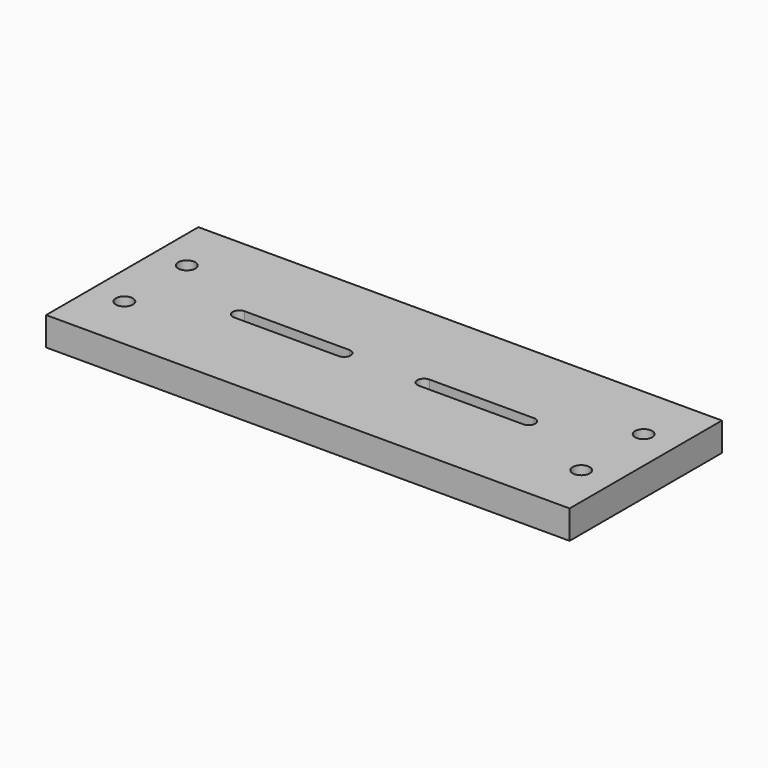
from build123d import *

# Parameters (mm, degrees)
F0_W     = 550
F0_H     = 200
F0_R     = 9
F1_DEPTH = 30


with BuildPart() as f1:
    # F0 (on Top) → F1 (new body)
    with BuildSketch(Plane.XY):
        Rectangle(F0_W, F0_H)
        with Locations((-240, -41)):
            Circle(F0_R, mode=Mode.SUBTRACT)
        with Locations((240, -41)):
            Circle(F0_R, mode=Mode.SUBTRACT)
        with Locations((-240, 41)):
            Circle(F0_R, mode=Mode.SUBTRACT)
        with BuildLine():
            ThreePointArc((-42, 7), (-35, 0), (-42, -7))
            Line((-42, -7), (-152, -7))
            ThreePointArc((-152, -7), (-159, 0), (-152, 7))
            Line((-152, 7), (-42, 7))
        make_face(mode=Mode.SUBTRACT)
        with BuildLine():
            ThreePointArc((42, -7), (35, 0), (42, 7))
            Line((42, 7), (152, 7))
            ThreePointArc((152, 7), (159, 0), (152, -7))
            Line((152, -7), (42, -7))
        make_face(mode=Mode.SUBTRACT)
        with Locations((240, 41)):
            Circle(F0_R, mode=Mode.SUBTRACT)
    extrude(amount=-F1_DEPTH)


solid = f1.part
